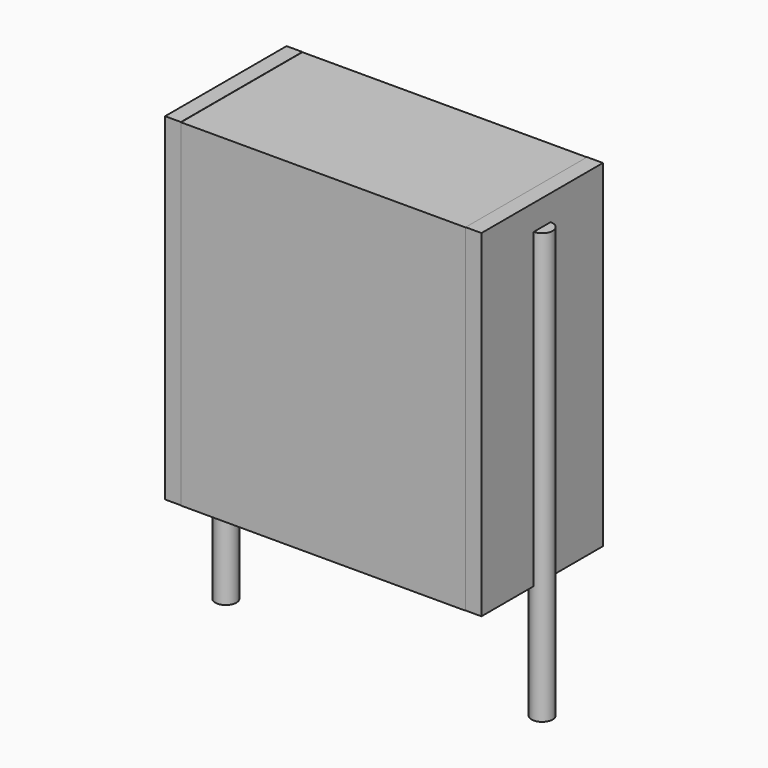
from build123d import *

# Parameters (mm, degrees)
SKETCH_W          = 6.75
SKETCH_H          = 3.6
PAD_DEPTH         = 8
SKETCH001_R       = 0.25
PAD001_DEPTH      = 7
PAD001_DEPTH_BACK = 3.2
SKETCH002_W       = 0.375
SKETCH002_H       = 3.6
PAD002_DEPTH      = 8


with BuildPart() as pad:
    # Sketch → Pad (new body)
    with BuildSketch(Plane.XY.offset(0.1)):
        with Locations((3.75, 0)):
            Rectangle(SKETCH_W, SKETCH_H)
    extrude(amount=PAD_DEPTH)


with BuildPart() as pad001:
    # Sketch001 → Pad001 (new body, two sides)
    with BuildSketch(Plane.XY.offset(0.5)) as pad001_sk:
        Circle(SKETCH001_R)
        with Locations((7.5, 0)):
            Circle(SKETCH001_R)
    extrude(amount=PAD001_DEPTH)
    extrude(pad001_sk.sketch, amount=-PAD001_DEPTH_BACK)


with BuildPart() as pad002:
    # Sketch002 → Pad002 (new body)
    with BuildSketch(Plane.XY.offset(0.105)):
        with Locations((0.1875, 0)):
            Rectangle(SKETCH002_W, SKETCH002_H)
        with Locations((7.3125, 0)):
            Rectangle(SKETCH002_W, SKETCH002_H)
    extrude(amount=PAD002_DEPTH)


solid = Compound([pad.part, pad001.part, pad002.part])
